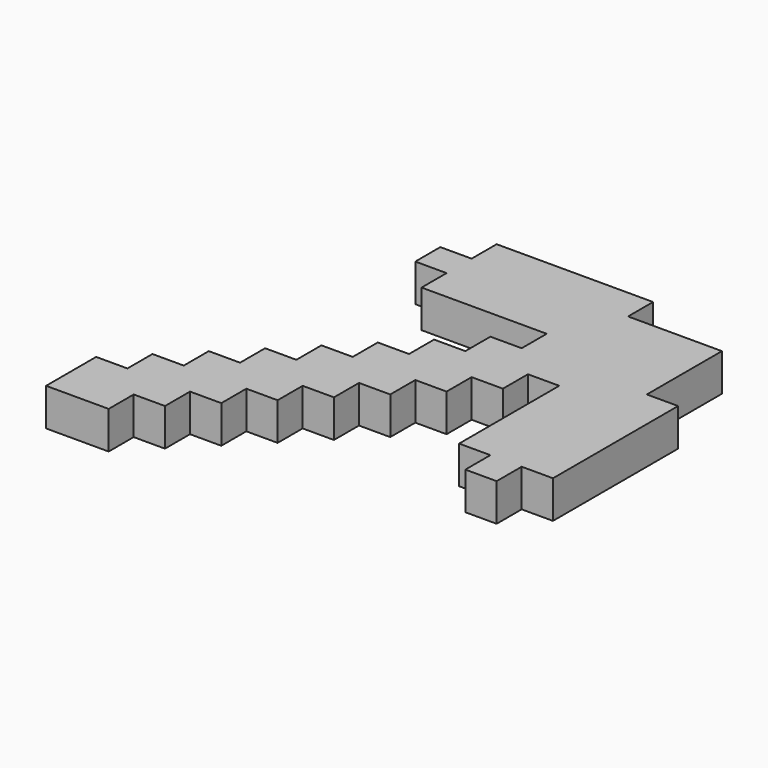
from build123d import *

# Parameters (mm, degrees)
F1_DEPTH = 3.048


with BuildPart() as f1:
    # F0 (on Top) → F1 (new body)
    with BuildSketch(Plane.XY):
        Polygon((-30.48, -27.569318), (-30.48, -32.649318), (-25.4, -32.649318), (-25.4, -30.109318), (-22.86, -30.109318), (-22.86, -27.569318), (-20.32, -27.569318), (-20.32, -25.029318), (-17.78, -25.029318), (-17.78, -22.489318), (-15.24, -22.489318), (-15.24, -19.949318), (-12.7, -19.949318), (-12.7, -17.409318), (-10.16, -17.409318), (-10.16, -14.869318), (-7.62, -14.869318), (-7.62, -12.329318), (-5.08, -12.329318), (-5.08, -22.489318), (-2.54, -22.489318), (-2.54, -25.029318), (0, -25.029318), (0, -22.489318), (2.54, -22.489318), (2.54, -9.789318), (0, -9.789318), (0, -2.169318), (-7.62, -2.169318), (-7.62, 0.370682), (-20.32, 0.370682), (-20.32, -2.169318), (-22.86, -2.169318), (-22.86, -4.709318), (-20.32, -4.709318), (-20.32, -7.249318), (-10.16, -7.249318), (-10.16, -9.789318), (-12.7, -9.789318), (-12.7, -12.329318), (-15.24, -12.329318), (-15.24, -14.869318), (-17.78, -14.869318), (-17.78, -17.409318), (-20.32, -17.409318), (-20.32, -19.949318), (-22.86, -19.949318), (-22.86, -22.489318), (-25.4, -22.489318), (-25.4, -25.029318), (-27.94, -25.029318), (-27.94, -27.569318), align=None)
    extrude(amount=F1_DEPTH)


solid = f1.part
